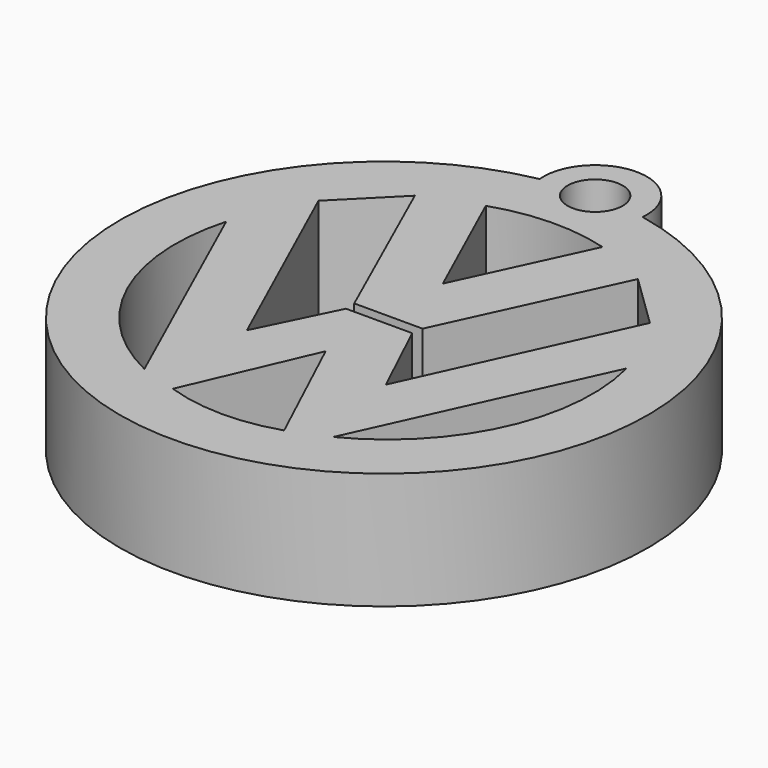
from build123d import *

# Parameters (mm, degrees)
F0_R     = 2.354044
F1_DEPTH = 10


with BuildPart() as f1:
    # F0 (on Top) → F1 (new body)
    with BuildSketch(Plane.XY):
        with BuildLine():
            ThreePointArc((4.400167, 22.145681), (0, 27), (-4.400167, 22.145681))
            ThreePointArc((-4.400167, 22.145681), (0, -22.578589), (4.400167, 22.145681))
        make_face()
        with BuildLine():
            ThreePointArc((-7.851796, -15.798463), (-16.019746, -7.418839), (-16.894154, 4.250305))
            Line((-16.894154, 4.250305), (-7.851796, -15.798463))
        make_face(mode=Mode.SUBTRACT)
        with BuildLine():
            Line((-4.57558, -16.846763), (0, -6.23271))
            Line((0, -6.23271), (4.990972, -16.912282))
            ThreePointArc((4.990972, -16.912282), (0.202393, -17.653817), (-4.57558, -16.846763))
        make_face(mode=Mode.SUBTRACT)
        with BuildLine():
            Line((8.145004, -15.600098), (17.244022, 4.381343))
            ThreePointArc((17.244022, 4.381343), (16.207238, -7.20898), (8.145004, -15.600098))
        make_face(mode=Mode.SUBTRACT)
        with Locations((0, 22.578589)):
            Circle(F0_R, mode=Mode.SUBTRACT)
        Polygon((-2.783565, -0.582846), (-5.999899, -7.149523), (-13.971761, 10.463425), (-9.4012, 15.053305), (-2.829771, 0.359639), (3.014378, 0.359639), (9.763293, 14.94512), (14.349613, 10.489838), (6.159757, -7.495084), (2.883815, -0.582846), align=None, mode=Mode.SUBTRACT)
        with BuildLine():
            Line((5.019014, 17.092083), (0, 6.293549))
            Line((0, 6.293549), (-4.787818, 16.871704))
            ThreePointArc((-4.787818, 16.871704), (0.098801, 17.729366), (5.019014, 17.092083))
        make_face(mode=Mode.SUBTRACT)
    extrude(amount=F1_DEPTH)


solid = f1.part
